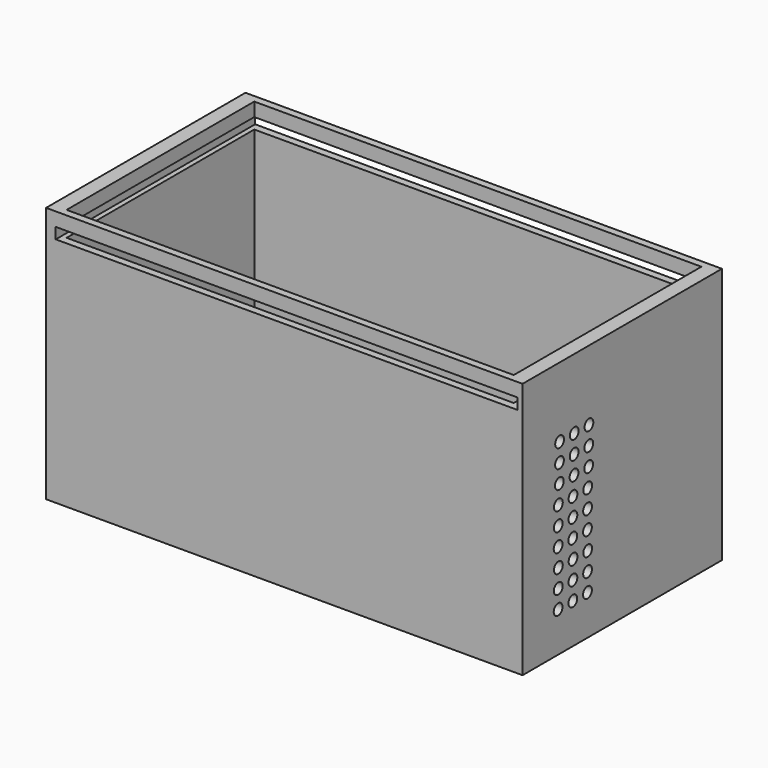
from build123d import *

# Parameters (mm, degrees)
SKETCH_W        = 130
SKETCH_H        = 68
PAD_DEPTH       = 70
SKETCH001_W     = 122
SKETCH001_H     = 64
POCKET_DEPTH    = 62
SKETCH002_W     = 126
SKETCH002_H     = 3
POCKET001_DEPTH = 68.001
SKETCH004_R     = 1.5
POCKET002_DEPTH = 5
SKETCH005_R     = 8.5
POCKET003_DEPTH = 70.001


with BuildPart() as part:
    # Sketch (on XY_Plane of Origin) → Pad (new body)
    with BuildSketch(Plane.XY):
        with Locations((15.008508, 3.133008)):
            Rectangle(SKETCH_W, SKETCH_H)
    extrude(amount=PAD_DEPTH)

    # Sketch001 (on Face6 of Pad) → Pocket (cut)
    with BuildSketch(Plane.XY.offset(70)):
        with Locations((15.008508, 3.133008)):
            Rectangle(SKETCH001_W, SKETCH001_H)
    extrude(amount=-POCKET_DEPTH, mode=Mode.SUBTRACT)

    # Sketch002 (on Face3 of Pocket) → Pocket001 (cut, through all)
    with BuildSketch(Plane.XZ.offset(30.866992)):
        with Locations((15.643498, 64.782843)):
            Rectangle(SKETCH002_W, SKETCH002_H)
    extrude(amount=-POCKET001_DEPTH, mode=Mode.SUBTRACT)

    # Sketch004 (on Face6 of Pocket001) → Pocket002 (cut)
    with BuildSketch(Plane.YZ.offset(80.008508)):
        with Locations((-18.646347, 35.954605)):
            Circle(SKETCH004_R)
        with Locations((-13.646347, 35.954605)):
            Circle(SKETCH004_R)
        with Locations((-8.646347, 35.954605)):
            Circle(SKETCH004_R)
        with Locations((-18.687416, 30.954774)):
            Circle(SKETCH004_R)
        with Locations((-13.687416, 30.954774)):
            Circle(SKETCH004_R)
        with Locations((-8.687416, 30.954774)):
            Circle(SKETCH004_R)
        with Locations((-18.728485, 25.954942)):
            Circle(SKETCH004_R)
        with Locations((-13.728485, 25.954942)):
            Circle(SKETCH004_R)
        with Locations((-8.728485, 25.954942)):
            Circle(SKETCH004_R)
        with Locations((-18.646347, 20.885028)):
            Circle(SKETCH004_R)
        with Locations((-13.646347, 20.885028)):
            Circle(SKETCH004_R)
        with Locations((-8.646347, 20.885028)):
            Circle(SKETCH004_R)
        with Locations((-18.687416, 15.885197)):
            Circle(SKETCH004_R)
        with Locations((-13.687416, 15.885197)):
            Circle(SKETCH004_R)
        with Locations((-8.687416, 15.885197)):
            Circle(SKETCH004_R)
        with Locations((-18.728485, 10.885365)):
            Circle(SKETCH004_R)
        with Locations((-13.728485, 10.885365)):
            Circle(SKETCH004_R)
        with Locations((-8.728485, 10.885365)):
            Circle(SKETCH004_R)
        with Locations((-18.22651, 50.948728)):
            Circle(SKETCH004_R)
        with Locations((-13.22651, 50.948728)):
            Circle(SKETCH004_R)
        with Locations((-8.22651, 50.948728)):
            Circle(SKETCH004_R)
        with Locations((-18.267579, 45.948897)):
            Circle(SKETCH004_R)
        with Locations((-13.267579, 45.948897)):
            Circle(SKETCH004_R)
        with Locations((-8.267579, 45.948897)):
            Circle(SKETCH004_R)
        with Locations((-18.308648, 40.949065)):
            Circle(SKETCH004_R)
        with Locations((-13.308648, 40.949065)):
            Circle(SKETCH004_R)
        with Locations((-8.308648, 40.949065)):
            Circle(SKETCH004_R)
    extrude(amount=-POCKET002_DEPTH, mode=Mode.SUBTRACT)

    # Sketch005 (on Face4 of Pocket002) → Pocket003 (cut, through all)
    with BuildSketch(Plane(origin=(0, 0, 0), x_dir=(1, 0, 0), z_dir=(0, 0, -1))):
        with Locations((39.327614, 12.574978)):
            Circle(SKETCH005_R)
        with Locations((39.327614, -14.425022)):
            Circle(SKETCH005_R)
    extrude(amount=-POCKET003_DEPTH, mode=Mode.SUBTRACT)


solid = part.part
